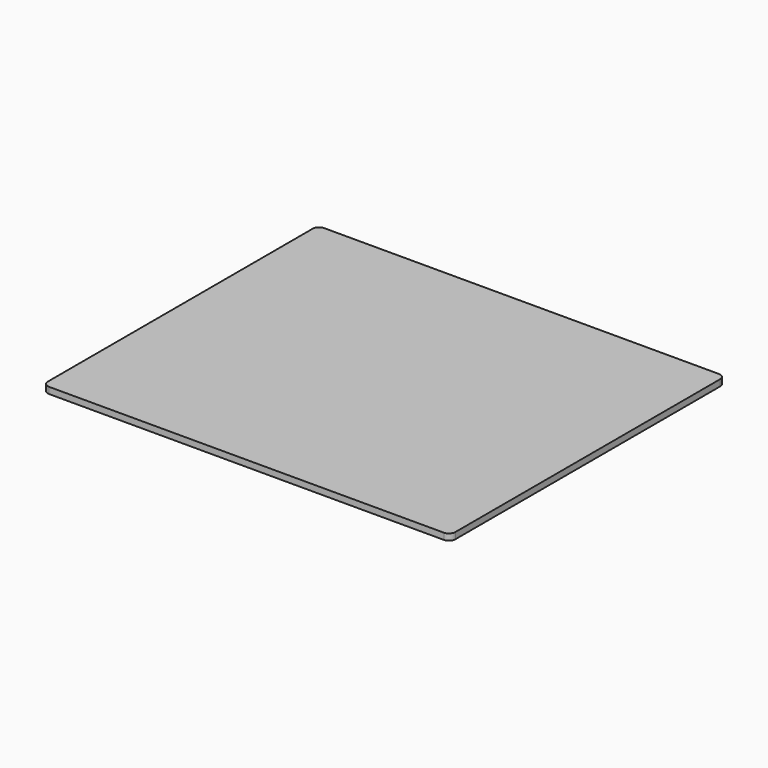
from build123d import *

# Parameters (mm, degrees)
F1_DEPTH = 5


with BuildPart() as f1:
    # F0 (on Top) → F1 (new body, symmetric)
    with BuildSketch(Plane.XY):
        with BuildLine():
            Line((310, 270), (-310, 270))
            ThreePointArc((-310, 270), (-317.071068, 267.071068), (-320, 260))
            Line((-320, 260), (-320, -260))
            ThreePointArc((-320, -260), (-317.071068, -267.071068), (-310, -270))
            Line((-310, -270), (310, -270))
            ThreePointArc((310, -270), (317.071068, -267.071068), (320, -260))
            Line((320, -260), (320, 260))
            ThreePointArc((320, 260), (317.071068, 267.071068), (310, 270))
        make_face()
    extrude(amount=F1_DEPTH, both=True)


solid = f1.part
